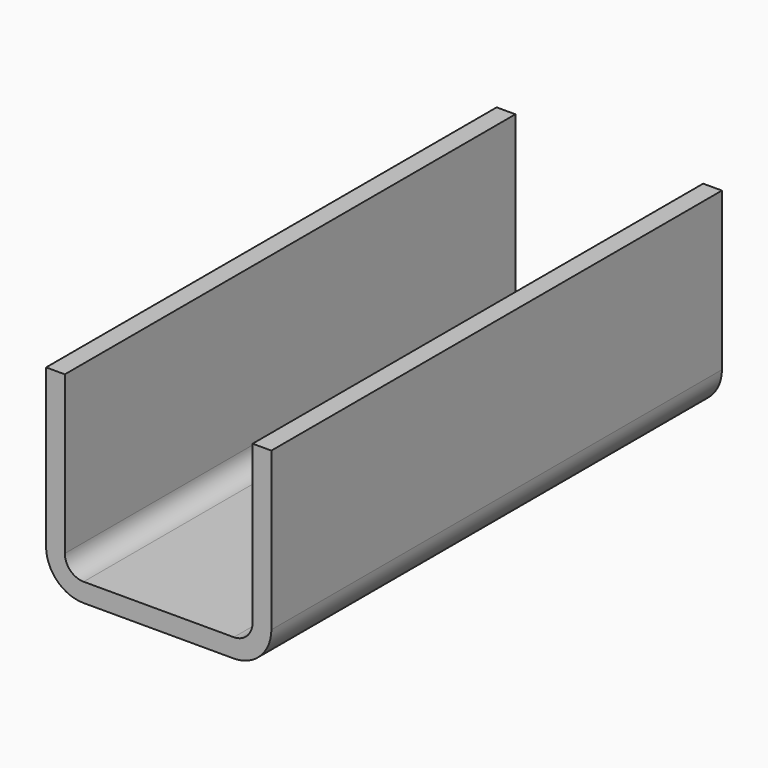
from build123d import *

# Parameters (mm, degrees)
F0_W     = 75
F0_H     = 26
F1_DEPTH = 15
F2_R     = 5
F3_T     = -2.5


with BuildPart() as f1:
    # F0 (on Right) → F1 (new body, symmetric)
    with BuildSketch(Plane.YZ):
        Rectangle(F0_W, F0_H)
    extrude(amount=F1_DEPTH, both=True)

    # F2
    f2_edges = [f1.edges().sort_by_distance(p)[0] for p in [
        (15, 0, -13),
        (-15, 0, -13),
    ]]
    fillet(f2_edges, radius=F2_R)

    # F3
    f3_openings = [f1.faces().sort_by_distance(p)[0] for p in [
        (0, 0, 13),
        (0, -37.5, 0.165751),
        (0, 37.5, 0.165751),
    ]]
    offset(amount=F3_T, openings=f3_openings)


solid = f1.part
